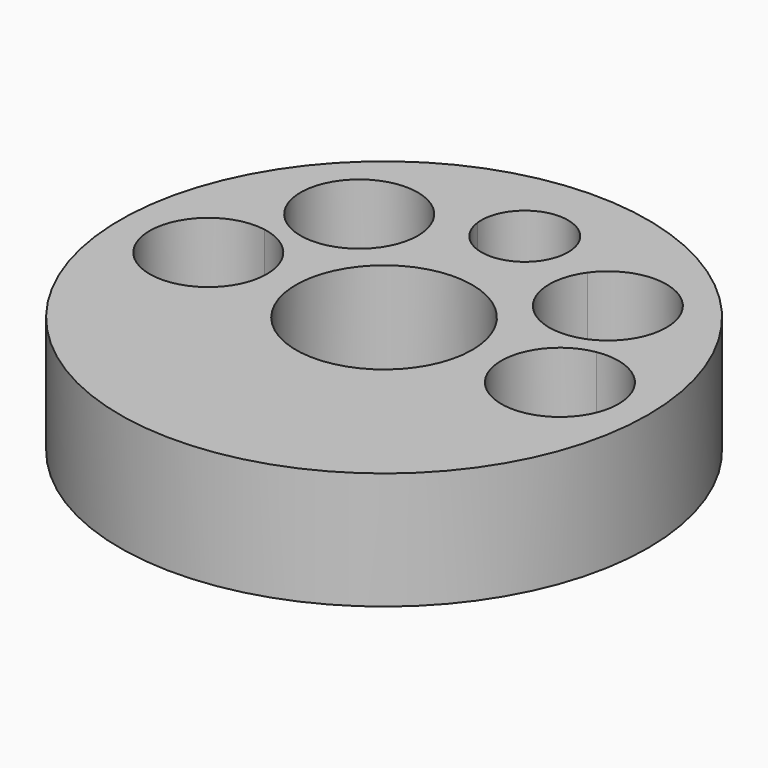
from build123d import *

# Parameters (mm, degrees)
F0_R     = 7.1501
F0_R_2   = 2.3876
F1_DEPTH = 3.175


with BuildPart() as f1:
    # F0 (on Top) → F1 (new body)
    with BuildSketch(Plane.XY):
        Circle(F0_R)
        with BuildLine():
            ThreePointArc((4.287339, 2.073676), (4.399976, 1.82253), (4.497917, 1.565296))
            ThreePointArc((4.497917, 1.565296), (5.787227, 1.212473), (6.35, 0))
            ThreePointArc((6.35, 0), (5.787227, -1.212473), (4.497917, -1.565296))
            ThreePointArc((4.497917, -1.565296), (0, -4.7625), (-4.497917, -1.565296))
            ThreePointArc((-4.497917, -1.565296), (-6.35, 0), (-4.497917, 1.565296))
            ThreePointArc((-4.497917, 1.565296), (-4.399976, 1.82253), (-4.287339, 2.073676))
            ThreePointArc((-4.287339, 2.073676), (-4.490128, 4.490128), (-2.073676, 4.287339))
            ThreePointArc((-2.073676, 4.287339), (-1.628125, 4.475558), (-1.165781, 4.617614))
            ThreePointArc((-1.165781, 4.617614), (-0.072582, 5.935006), (1.17475, 4.7625))
            ThreePointArc((1.17475, 4.7625), (1.172506, 4.689918), (1.165781, 4.617614))
            ThreePointArc((1.165781, 4.617614), (1.628125, 4.475558), (2.073676, 4.287339))
            ThreePointArc((2.073676, 4.287339), (3.850327, 4.879921), (4.955096, 3.367596))
            ThreePointArc((4.955096, 3.367596), (4.778314, 2.639563), (4.287339, 2.073676))
        make_face(mode=Mode.SUBTRACT)
        with BuildLine():
            ThreePointArc((4.497917, -1.565296), (3.175, 0), (4.497917, 1.565296))
            ThreePointArc((4.497917, 1.565296), (4.399976, 1.82253), (4.287339, 2.073676))
            ThreePointArc((4.287339, 2.073676), (2.245064, 2.245064), (2.073676, 4.287339))
            ThreePointArc((2.073676, 4.287339), (1.628125, 4.475558), (1.165781, 4.617614))
            ThreePointArc((1.165781, 4.617614), (0, 3.58775), (-1.165781, 4.617614))
            ThreePointArc((-1.165781, 4.617614), (-1.628125, 4.475558), (-2.073676, 4.287339))
            ThreePointArc((-2.073676, 4.287339), (-1.855271, 3.850327), (-1.780096, 3.367596))
            ThreePointArc((-1.780096, 3.367596), (-2.639563, 1.956879), (-4.287339, 2.073676))
            ThreePointArc((-4.287339, 2.073676), (-4.399976, 1.82253), (-4.497917, 1.565296))
            ThreePointArc((-4.497917, 1.565296), (-3.550027, 1.024727), (-3.175, 0))
            ThreePointArc((-3.175, 0), (-3.550027, -1.024727), (-4.497917, -1.565296))
            ThreePointArc((-4.497917, -1.565296), (0, -4.7625), (4.497917, -1.565296))
        make_face()
        Circle(F0_R_2, mode=Mode.SUBTRACT)
    extrude(amount=F1_DEPTH)


solid = f1.part
